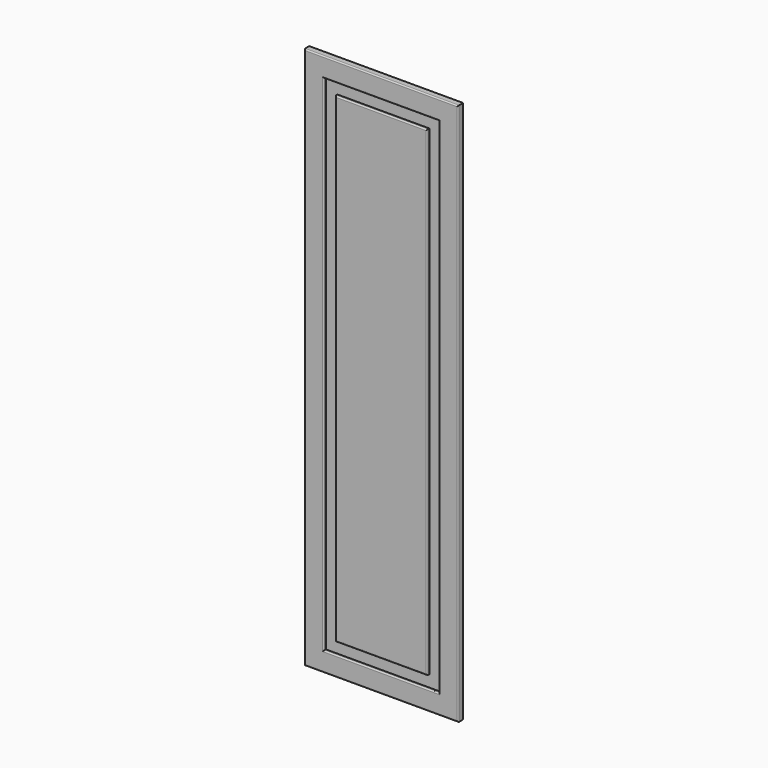
from build123d import *

# Parameters (mm, degrees)
F0_W      = 44.656470418
F0_H      = 33.8078811765
F1_DEPTH  = 16
F2_DEPTH  = 796
F3_DEPTH  = 196
F4_W      = 68.9578056335
F4_H      = 493.6993122101
F5_DEPTH  = 7
F6_DEPTH  = 9.7
F7_DEPTH  = 99.33
F8_DEPTH  = 99.33
F9_DEPTH  = 17.34
F10_DEPTH = 102.97
F11_W     = 35.2807044983
F11_H     = 492.0964837074
F12_DEPTH = 7
F13_DEPTH = 37.27
F14_DEPTH = 6.58
F15_DEPTH = 106.63
F16_DEPTH = 5.87
F17_DEPTH = 200
F18_DEPTH = 200
F19_DEPTH = 200
F20_DEPTH = 200
F21_DEPTH = 200
F22_DEPTH = 200
F23_DEPTH = 400
F24_DEPTH = 400
F25_DEPTH = 400
F26_DEPTH = 400
F27_DEPTH = 400
F28_DEPTH = 400
F29_DEPTH = 400
F30_DEPTH = 400
F31_DEPTH = 400
F32_DEPTH = 1000
F33_DEPTH = 1000
F34_DEPTH = 1000
F35_DEPTH = 1000
F36_DEPTH = 1000
F37_DEPTH = 1000
F38_R     = 3


with BuildPart() as f1:
    # F0 (on Front) → F1 (new body)
    with BuildSketch(Plane.XZ):
        with Locations((22.328235209, 16.9039405882)):
            Rectangle(F0_W, F0_H)
    extrude(amount=F1_DEPTH)

    # F2 (add): a face of the model
    f2_faces = [f1.faces().sort_by_distance(p)[0] for p in [
        (22.328235209, -8, 0),
    ]]
    extrude(f2_faces, amount=-F2_DEPTH)

    # F3 (add): a face of the model
    f3_faces = [f1.faces().sort_by_distance(p)[0] for p in [
        (0, -8, 398),
    ]]
    extrude(f3_faces, amount=-F3_DEPTH)

    # F4 (on face) → F5 (cut)
    with BuildSketch(Plane.XZ.offset(16)):
        with Locations((94.1769480705, 399.8196721077)):
            Rectangle(F4_W, F4_H)
    extrude(amount=-F5_DEPTH, mode=Mode.SUBTRACT)

    # F6 (cut): a face of the model
    f6_faces = [f1.faces().sort_by_distance(p)[0] for p in [
        (59.6980452538, -12.5, 399.8196721077),
    ]]
    extrude(f6_faces, amount=-F6_DEPTH, mode=Mode.SUBTRACT)

    # F7 (add): a face of the model
    f7_faces = [f1.faces().sort_by_distance(p)[0] for p in [
        (89.3269480705, -12.5, 646.6693282127),
    ]]
    extrude(f7_faces, amount=-F7_DEPTH)

    # F8 (cut): a face of the model
    f8_faces = [f1.faces().sort_by_distance(p)[0] for p in [
        (89.3269480705, -12.5, 646.6693282127),
    ]]
    extrude(f8_faces, amount=-F8_DEPTH, mode=Mode.SUBTRACT)

    # F9 (cut): a face of the model
    f9_faces = [f1.faces().sort_by_distance(p)[0] for p in [
        (128.6558508873, -12.5, 449.4846721077),
    ]]
    extrude(f9_faces, amount=-F9_DEPTH, mode=Mode.SUBTRACT)

    # F10 (cut): a face of the model
    f10_faces = [f1.faces().sort_by_distance(p)[0] for p in [
        (97.9969480705, -12.5, 152.9700160027),
    ]]
    extrude(f10_faces, amount=-F10_DEPTH, mode=Mode.SUBTRACT)

    # F11 (on face) → F12 (join)
    with BuildSketch(Plane.XZ.offset(9)):
        with Locations((91.7714834213, 432.6795041561)):
            Rectangle(F11_W, F11_H)
    extrude(amount=F12_DEPTH)

    # F13 (add): a face of the model
    f13_faces = [f1.faces().sort_by_distance(p)[0] for p in [
        (91.7714834213, -12.5, 678.7277460098),
    ]]
    extrude(f13_faces, amount=F13_DEPTH)

    # F14 (add): a face of the model
    f14_faces = [f1.faces().sort_by_distance(p)[0] for p in [
        (109.4118356705, -12.5, 451.3145041561),
    ]]
    extrude(f14_faces, amount=F14_DEPTH)

    # F15 (add): a face of the model
    f15_faces = [f1.faces().sort_by_distance(p)[0] for p in [
        (95.0614834213, -12.5, 186.6312623024),
    ]]
    extrude(f15_faces, amount=F15_DEPTH)

    # F16 (cut): a face of the model
    f16_faces = [f1.faces().sort_by_distance(p)[0] for p in [
        (74.1311311722, -12.5, 397.9995041561),
    ]]
    extrude(f16_faces, amount=-F16_DEPTH, mode=Mode.SUBTRACT)

    # F17 (add): a face of the model
    f17_faces = [f1.faces().sort_by_distance(p)[0] for p in [
        (196, -8, 398),
    ]]
    extrude(f17_faces, amount=F17_DEPTH)

    # F18 (cut): a face of the model
    f18_faces = [f1.faces().sort_by_distance(p)[0] for p in [
        (145.9958508873, -12.5, 397.9996721077),
    ]]
    extrude(f18_faces, amount=-F18_DEPTH, mode=Mode.SUBTRACT)

    # F19 (add): a face of the model
    f19_faces = [f1.faces().sort_by_distance(p)[0] for p in [
        (115.9918356705, -12.5, 397.9995041561),
    ]]
    extrude(f19_faces, amount=F19_DEPTH)

    # F20 (add): a face of the model
    f20_faces = [f1.faces().sort_by_distance(p)[0] for p in [
        (396, -8, 398),
    ]]
    extrude(f20_faces, amount=F20_DEPTH)

    # F21 (cut): a face of the model
    f21_faces = [f1.faces().sort_by_distance(p)[0] for p in [
        (345.9958508873, -12.5, 397.9996721077),
    ]]
    extrude(f21_faces, amount=-F21_DEPTH, mode=Mode.SUBTRACT)

    # F22 (add): a face of the model
    f22_faces = [f1.faces().sort_by_distance(p)[0] for p in [
        (315.9918356705, -12.5, 397.9995041561),
    ]]
    extrude(f22_faces, amount=F22_DEPTH)

    # F23 (add): a face of the model
    f23_faces = [f1.faces().sort_by_distance(p)[0] for p in [
        (596, -8, 398),
    ]]
    extrude(f23_faces, amount=F23_DEPTH)

    # F24 (cut): a face of the model
    f24_faces = [f1.faces().sort_by_distance(p)[0] for p in [
        (545.9958508873, -12.5, 397.9996721077),
    ]]
    extrude(f24_faces, amount=-F24_DEPTH, mode=Mode.SUBTRACT)

    # F25 (add): a face of the model
    f25_faces = [f1.faces().sort_by_distance(p)[0] for p in [
        (515.9918356705, -12.5, 397.9995041561),
    ]]
    extrude(f25_faces, amount=F25_DEPTH)

    # F26 (cut): a face of the model
    f26_faces = [f1.faces().sort_by_distance(p)[0] for p in [
        (497.9964834213, -12.5, 80.0012623024),
    ]]
    extrude(f26_faces, amount=-F26_DEPTH, mode=Mode.SUBTRACT)

    # F27 (add): a face of the model
    f27_faces = [f1.faces().sort_by_distance(p)[0] for p in [
        (497.9969480705, -12.5, 50.0000160027),
    ]]
    extrude(f27_faces, amount=F27_DEPTH)

    # F28 (cut): a face of the model
    f28_faces = [f1.faces().sort_by_distance(p)[0] for p in [
        (498, -8, 0),
    ]]
    extrude(f28_faces, amount=-F28_DEPTH, mode=Mode.SUBTRACT)

    # F29 (add): a face of the model
    f29_faces = [f1.faces().sort_by_distance(p)[0] for p in [
        (996, -8, 598),
    ]]
    extrude(f29_faces, amount=F29_DEPTH)

    # F30 (cut): a face of the model
    f30_faces = [f1.faces().sort_by_distance(p)[0] for p in [
        (945.9958508873, -12.5, 597.9996721077),
    ]]
    extrude(f30_faces, amount=-F30_DEPTH, mode=Mode.SUBTRACT)

    # F31 (add): a face of the model
    f31_faces = [f1.faces().sort_by_distance(p)[0] for p in [
        (915.9918356705, -12.5, 597.9995041561),
    ]]
    extrude(f31_faces, amount=F31_DEPTH)

    # F32 (cut): a face of the model
    f32_faces = [f1.faces().sort_by_distance(p)[0] for p in [
        (1315.9918356705, -12.5, 597.9995041561),
    ]]
    extrude(f32_faces, amount=-F32_DEPTH, mode=Mode.SUBTRACT)

    # F33 (add): a face of the model
    f33_faces = [f1.faces().sort_by_distance(p)[0] for p in [
        (1345.9958508873, -12.5, 597.9996721077),
    ]]
    extrude(f33_faces, amount=F33_DEPTH)

    # F34 (cut): a face of the model
    f34_faces = [f1.faces().sort_by_distance(p)[0] for p in [
        (1396, -8, 598),
    ]]
    extrude(f34_faces, amount=-F34_DEPTH, mode=Mode.SUBTRACT)

    # F35 (add): a face of the model
    f35_faces = [f1.faces().sort_by_distance(p)[0] for p in [
        (198, -8, 796),
    ]]
    extrude(f35_faces, amount=F35_DEPTH)

    # F36 (cut): a face of the model
    f36_faces = [f1.faces().sort_by_distance(p)[0] for p in [
        (197.9969480705, -12.5, 745.9993282127),
    ]]
    extrude(f36_faces, amount=-F36_DEPTH, mode=Mode.SUBTRACT)

    # F37 (add): a face of the model
    f37_faces = [f1.faces().sort_by_distance(p)[0] for p in [
        (197.9964834213, -12.5, 715.9977460098),
    ]]
    extrude(f37_faces, amount=F37_DEPTH)

    # F38
    f38_edges = [f1.edges().sort_by_distance(p)[0] for p in [
        (80.001131, -16, 1097.999504),
        (197.996483, -16, 1715.997746),
        (315.991836, -16, 1097.999504),
        (197.996483, -16, 480.001262),
        (0, -16, 1098),
        (198, -16, 400),
        (396, -16, 1098),
        (198, -16, 1796),
        (345.995851, -16, 1097.999672),
        (197.996948, -16, 450.000016),
        (49.998045, -16, 1097.999672),
        (197.996948, -16, 1745.999328),
    ]]
    fillet(f38_edges, radius=F38_R)


solid = f1.part
